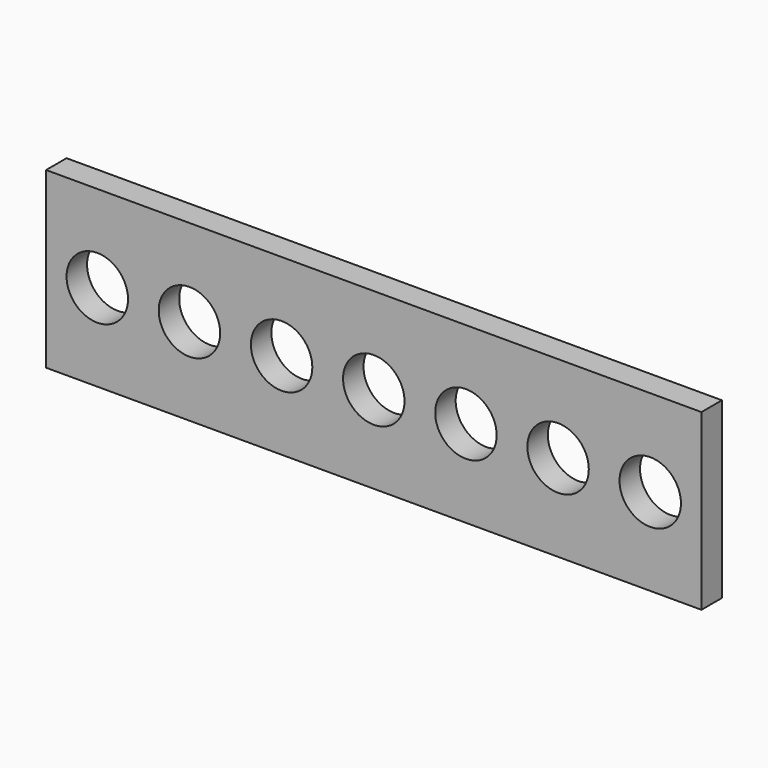
from build123d import *

# Parameters (mm, degrees)
F0_W     = 64
F0_H     = 17
F1_DEPTH = 2.5
F2_R     = 3
F3_DEPTH = 2.501


with BuildPart() as f1:
    # F0 (on Front) → F1 (new body)
    with BuildSketch(Plane.XZ):
        Rectangle(F0_W, F0_H)
    extrude(amount=F1_DEPTH)

    # F2 (on face) → F3 (cut, through all)
    with BuildSketch(Plane.XZ.offset(2.5)):
        with Locations((27, 0)):
            Circle(F2_R)
        with Locations((18, 0)):
            Circle(F2_R)
        with Locations((9, 0)):
            Circle(F2_R)
        Circle(F2_R)
        with Locations((-9, 0)):
            Circle(F2_R)
        with Locations((-18, 0)):
            Circle(F2_R)
        with Locations((-27, 0)):
            Circle(F2_R)
    extrude(amount=-F3_DEPTH, mode=Mode.SUBTRACT)


solid = f1.part
